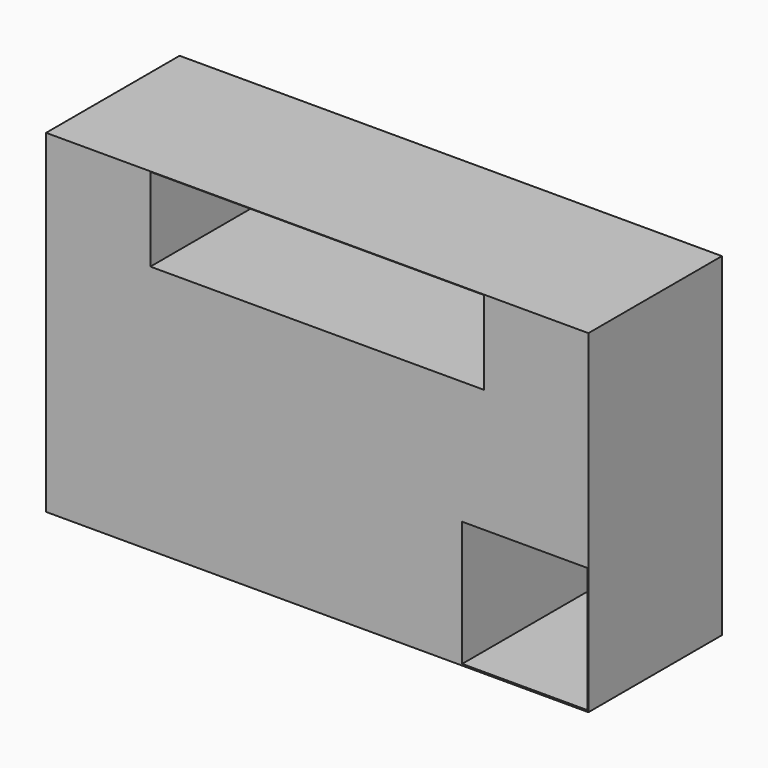
from build123d import *

# Parameters (mm, degrees)
F0_W     = 82.55
F0_H     = 50.8
F1_DEPTH = 25.4
F2_W     = 50.8
F2_H     = 12.7
F3_DEPTH = 50.292
F4_W     = 19.05
F4_H     = 19.05
F5_DEPTH = 72.644


with BuildPart() as f1:
    # F0 (on Front) → F1 (new body)
    with BuildSketch(Plane.XZ):
        Rectangle(F0_W, F0_H)
    extrude(amount=F1_DEPTH)

    # F2 (on Front) → F3 (cut)
    with BuildSketch(Plane.XZ):
        with Locations((0, 18.983158)):
            Rectangle(F2_W, F2_H)
    extrude(amount=F3_DEPTH, mode=Mode.SUBTRACT)

    # F4 (on Front) → F5 (cut)
    with BuildSketch(Plane.XZ):
        with Locations((31.582892, -15.641052)):
            Rectangle(F4_W, F4_H)
    extrude(amount=F5_DEPTH, mode=Mode.SUBTRACT)


solid = f1.part
